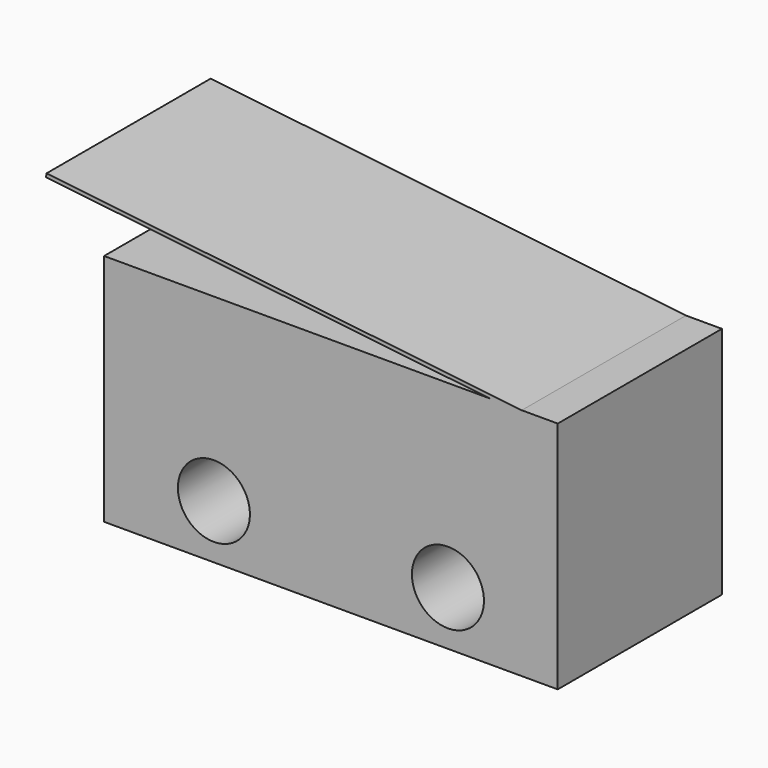
from build123d import *

# Parameters (mm, degrees)
SKETCH029_W     = 12.6
SKETCH029_H     = 5.7
PAD009_DEPTH    = 6.5
SKETCH030_R     = 1
POCKET025_DEPTH = 5.701
PAD010_DEPTH    = 5.7


with BuildPart() as part:
    # Sketch029 → Pad009 (new body)
    with BuildSketch(Plane.XY):
        with Locations((6.3, 2.85)):
            Rectangle(SKETCH029_W, SKETCH029_H)
    extrude(amount=PAD009_DEPTH)

    # Sketch030 (on Face1 of Pad009) → Pocket025 (cut, through all)
    with BuildSketch(Plane(origin=(0, 5.7, 0), x_dir=(-1, 0, 0), z_dir=(0, 1, 0))):
        with Locations((-9.55, 1.5)):
            Circle(SKETCH030_R)
        with Locations((-3.05, 1.5)):
            Circle(SKETCH030_R)
    extrude(amount=-POCKET025_DEPTH, mode=Mode.SUBTRACT)

    # Sketch031 (on Face1 of Pocket025) → Pad010 (join)
    with BuildSketch(Plane(origin=(0, 5.7, 0), x_dir=(-1, 0, 0), z_dir=(0, 1, 0))):
        Polygon((-11.6, 6.5), (1.6, 8), (1.611291, 7.900639), (-10.714336, 6.5), align=None)
    extrude(amount=-PAD010_DEPTH)


solid = part.part
